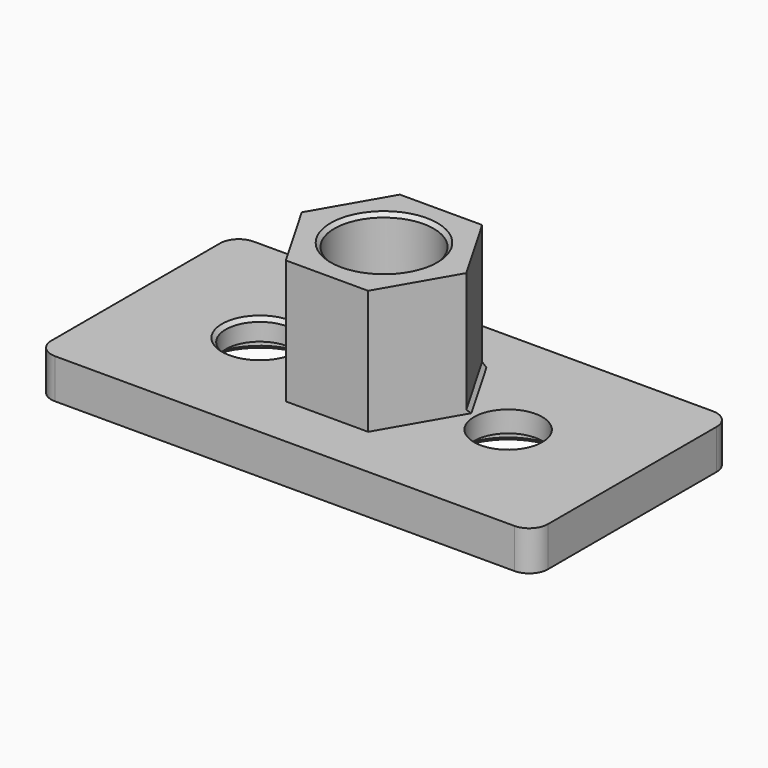
from build123d import *

# Parameters (mm, degrees)
SKETCH_W        = 40
SKETCH_H        = 20
SKETCH_R        = 2.75
PAD_DEPTH       = 3.2
FILLET_R        = 1.5
PAD001_DEPTH    = 10
SKETCH002_R     = 4
POCKET_DEPTH    = 13.201
SKETCH003_R     = 4.5
POCKET001_DEPTH = 1.5
CHAMFER_SIZE    = 0.3
CHAMFER001_SIZE = 0.3


with BuildPart() as part:
    # Sketch → Pad (new body)
    with BuildSketch(Plane.XY):
        Rectangle(SKETCH_W, SKETCH_H)
        with Locations((10, 0)):
            Circle(SKETCH_R, mode=Mode.SUBTRACT)
        with Locations((-10, 0)):
            Circle(SKETCH_R, mode=Mode.SUBTRACT)
    extrude(amount=PAD_DEPTH)

    # Fillet
    fillet_edges = [part.edges().sort_by_distance(p)[0] for p in [
        (-20, -10, 1.6),
        (-20, 10, 1.6),
        (20, 10, 1.6),
        (20, -10, 1.6),
    ]]
    fillet(fillet_edges, radius=FILLET_R)

    # Sketch001 (on Face5 of Fillet) → Pad001 (join)
    with BuildSketch(Plane.XY.offset(3.2)):
        Polygon((6.627981, 0), (3.313991, 5.74), (-3.313991, 5.74), (-6.627981, 0), (-3.313991, -5.74), (3.313991, -5.74), align=None)
    extrude(amount=PAD001_DEPTH)

    # Sketch002 (on Face19 of Pad001) → Pocket (cut, through all)
    with BuildSketch(Plane.XY.offset(13.2)):
        Circle(SKETCH002_R)
    extrude(amount=-POCKET_DEPTH, mode=Mode.SUBTRACT)

    # Sketch003 (on Face2 of Pocket) → Pocket001 (cut)
    with BuildSketch(Plane(origin=(0, 0, 0), x_dir=(1, 0, 0), z_dir=(0, 0, -1))):
        with Locations((10, 0)):
            Circle(SKETCH003_R)
        with Locations((-10, 0)):
            Circle(SKETCH003_R)
    extrude(amount=-POCKET001_DEPTH, mode=Mode.SUBTRACT)

    # Chamfer
    chamfer_edges = [part.edges().sort_by_distance(p)[0] for p in [
        (5.5, 0, 0),
        (-4, 0, 0),
        (-14.5, 0, 0),
    ]]
    chamfer(chamfer_edges, length=CHAMFER_SIZE)

    # Chamfer001
    chamfer001_edges = [part.edges().sort_by_distance(p)[0] for p in [
        (4.970986, 2.87, 3.2),
        (-4, 0, 13.2),
        (-12.75, 0, 3.2),
    ]]
    chamfer(chamfer001_edges, length=CHAMFER001_SIZE)


solid = part.part
